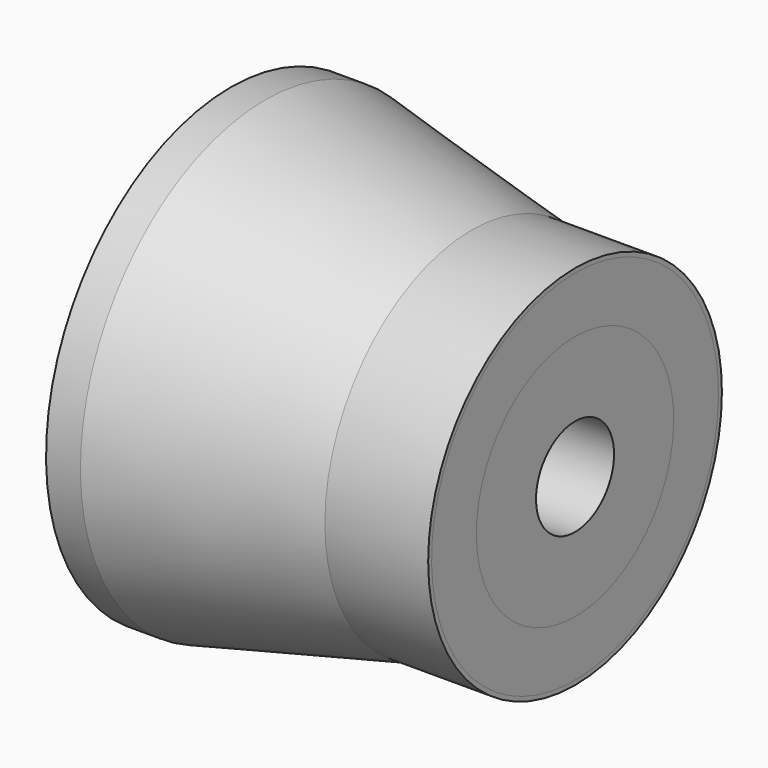
from build123d import *


with BuildPart() as f1:
    # F0 (on Front) → F1 (revolve)
    with BuildSketch(Plane.XZ):
        Polygon((152.398928, 273.05), (-381.001072, 360.061039), (-381.001072, 192.88125), (152.398928, 107.95), (380.998928, 107.95), (380.998928, 273.05), align=None)
    revolve(axis=Axis((-0.001072, 0, 0), (1, 0, 0)))


with BuildPart() as f2:
    # F0 (on Front) → F2 (revolve)
    with BuildSketch(Plane.XZ):
        Polygon((-305.878513, 501.65), (-381.001072, 501.65), (-381.001072, 360.061039), (152.398928, 273.05), (380.998928, 273.05), (380.998928, 396.875), (151.321487, 396.875), align=None)
    revolve(axis=Axis((-0.001072, 0, 0), (1, 0, 0)))


with BuildPart() as f3:
    # F0 (on Front) → F3 (revolve)
    with BuildSketch(Plane.XZ):
        Polygon((-304.801072, 511.175), (-381.001072, 511.175), (-381.001072, 501.65), (-305.878513, 501.65), (151.321487, 396.875), (380.998928, 396.875), (380.998928, 406.4), (152.398928, 406.4), align=None)
    revolve(axis=Axis((-0.001072, 0, 0), (1, 0, 0)))


solid = Compound([f1.part, f2.part, f3.part])
